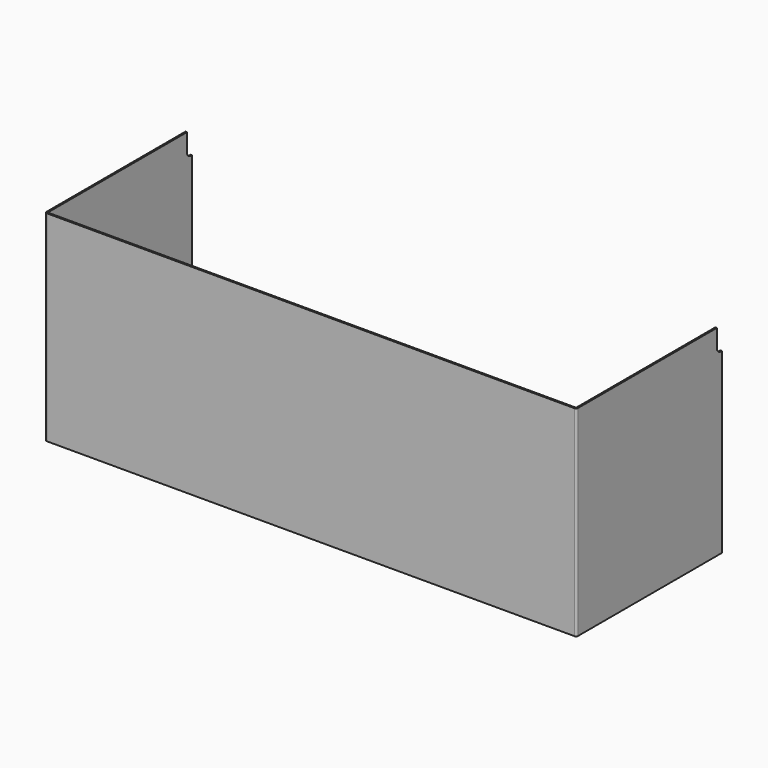
from build123d import *

# Parameters (mm, degrees)
F1_DEPTH = 250.825
F3_DEPTH = 664.211


with BuildPart() as f1:
    # F0 (on Top) → F1 (new body)
    with BuildSketch(Plane.XY):
        with BuildLine():
            ThreePointArc((0, -224.79), (0.743949, -226.586051), (2.54, -227.33))
            Line((2.54, -227.33), (661.67, -227.33))
            ThreePointArc((661.67, -227.33), (663.466051, -226.586051), (664.21, -224.79))
            Line((664.21, -224.79), (664.21, 0))
            Line((664.21, 0), (662.305, 0))
            Line((662.305, 0), (662.305, -225.425))
            Line((662.305, -225.425), (1.905, -225.425))
            Line((1.905, -225.425), (1.905, 0))
            Line((1.905, 0), (0, 0))
            Line((0, 0), (0, -224.79))
        make_face()
    extrude(amount=F1_DEPTH)

    # F2 (on face) → F3 (cut, through all)
    with BuildSketch(Plane.YZ.offset(664.21)):
        with BuildLine():
            ThreePointArc((-7.9248, 228.6), (-6.064928, 224.109872), (-1.5748, 222.25))
            Line((-1.5748, 222.25), (0, 222.25))
            Line((0, 222.25), (0, 250.825))
            Line((0, 250.825), (-7.9248, 250.825))
            Line((-7.9248, 250.825), (-7.9248, 228.6))
        make_face()
    extrude(amount=-F3_DEPTH, mode=Mode.SUBTRACT)


solid = f1.part
